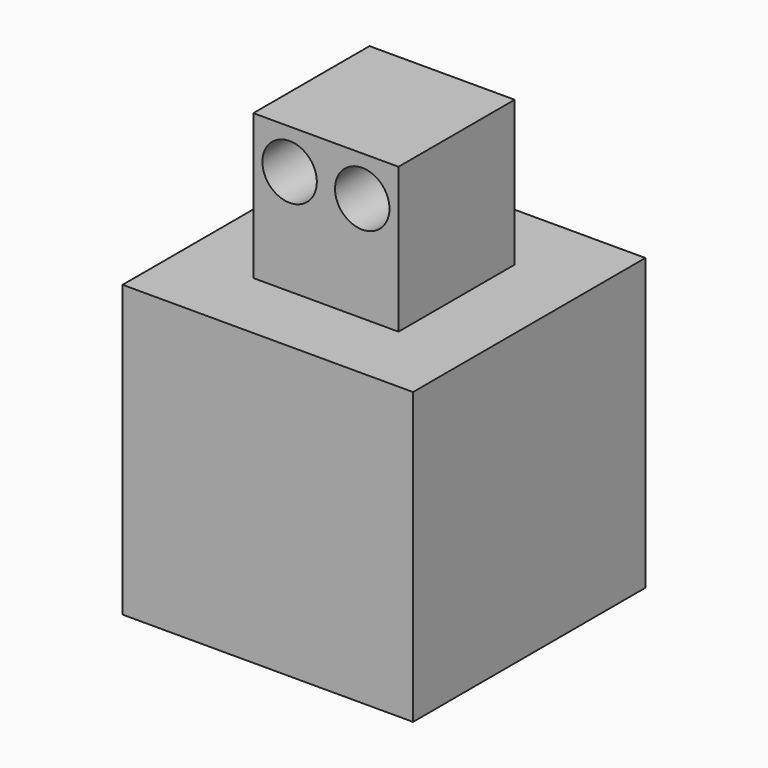
from build123d import *

# Parameters (mm, degrees)
F0_W     = 80
F0_H     = 80
F1_DEPTH = 80
F2_W     = 40
F2_H     = 40
F3_DEPTH = 40
F4_R     = 7.5
F5_DEPTH = 40
F6_R     = 7.5
F7_DEPTH = 40


with BuildPart() as f1:
    # F0 (on Top) → F1 (new body)
    with BuildSketch(Plane.XY):
        Rectangle(F0_W, F0_H)
    extrude(amount=F1_DEPTH)

    # F2 (on face) → F3 (join)
    with BuildSketch(Plane.XY.offset(80)):
        Rectangle(F2_W, F2_H)
    extrude(amount=F3_DEPTH)

    # F4 (on face) → F5 (cut)
    with BuildSketch(Plane.XZ.offset(20)):
        with Locations((-10, 109)):
            Circle(F4_R)
    extrude(amount=-F5_DEPTH, mode=Mode.SUBTRACT)

    # F6 (on face) → F7 (cut)
    with BuildSketch(Plane.XZ.offset(20)):
        with Locations((10, 109)):
            Circle(F6_R)
    extrude(amount=-F7_DEPTH, mode=Mode.SUBTRACT)


solid = f1.part
